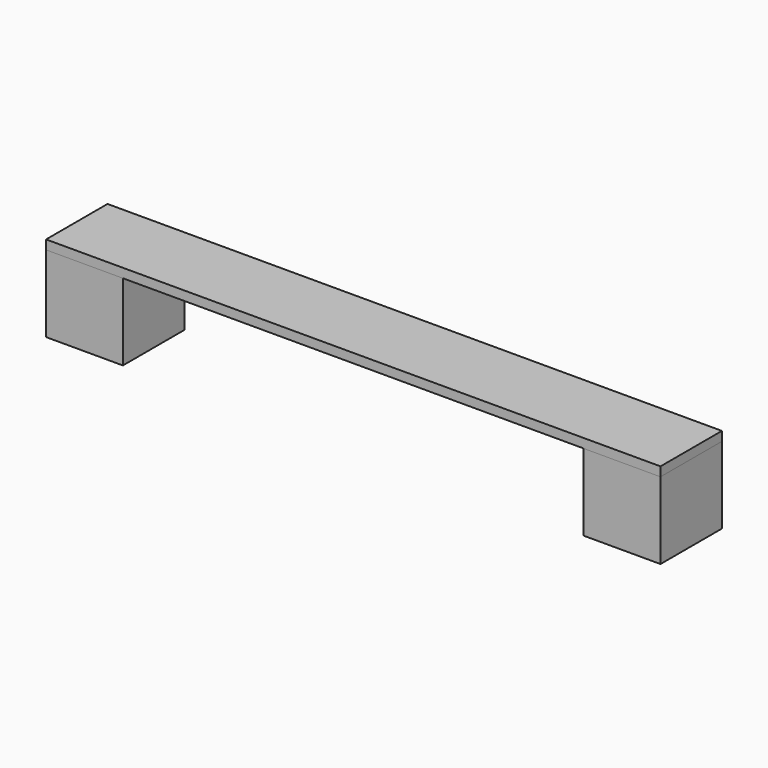
from build123d import *

# Parameters (mm, degrees)
F0_W     = 5
F0_H     = 5
F1_DEPTH = 5
F2_W     = 5
F2_H     = 0.6
F3_DEPTH = 40


with BuildPart() as f1:
    # F0 (on Top) → F1 (new body)
    with BuildSketch(Plane.XY):
        with Locations((-17.5, 2.5)):
            Rectangle(F0_W, F0_H)
        with Locations((17.5, 2.5)):
            Rectangle(F0_W, F0_H)
    extrude(amount=F1_DEPTH)


with BuildPart() as f3:
    # F2 (on face) → F3 (new body)
    with BuildSketch(Plane(origin=(-20, 0, 0), x_dir=(0, -1, 0), z_dir=(-1, 0, 0))):
        with Locations((-2.5, 5.3)):
            Rectangle(F2_W, F2_H)
    extrude(amount=-F3_DEPTH)


solid = Compound([f1.part, f3.part])
